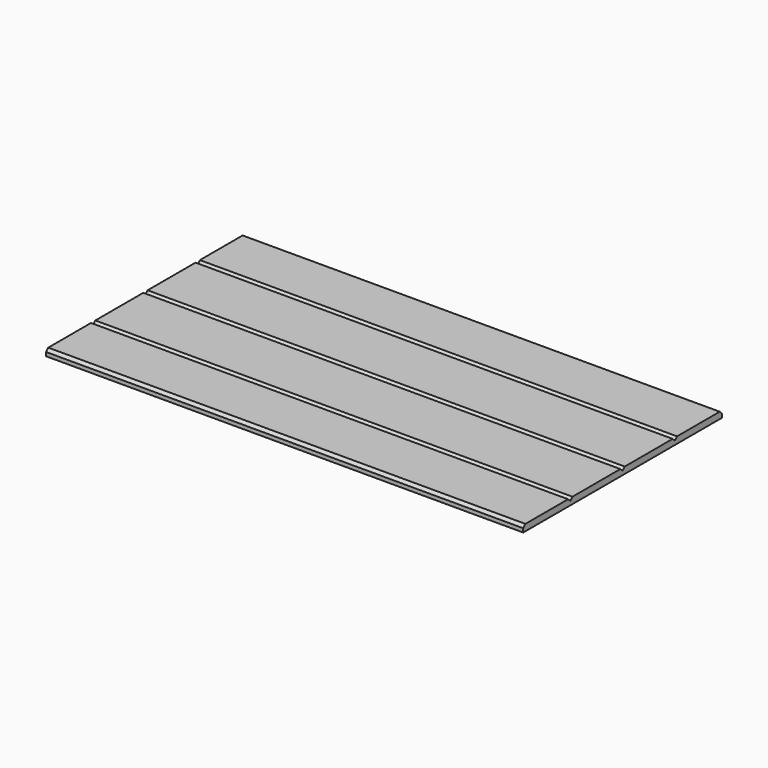
from build123d import *

# Parameters (mm, degrees)
F0_W     = 876
F0_H     = 456
F1_DEPTH = 12
F3_DEPTH = 900


with BuildPart() as f1:
    # F0 (on Top) → F1 (new body)
    with BuildSketch(Plane.XY):
        with Locations((113.771095, -4.736843)):
            Rectangle(F0_W, F0_H)
    extrude(amount=F1_DEPTH)

    # F2 (on face) → F3 (cut)
    with BuildSketch(Plane(origin=(-324.228905, 0, 0), x_dir=(0, -1, 0), z_dir=(-1, 0, 0))):
        Polygon((-218.263157, 12), (-223.263157, 12), (-223.263157, 7), align=None)
        Polygon((232.736843, 7), (232.736843, 12), (227.736843, 12), align=None)
        Polygon((129.736843, 12), (124.736843, 12), (119.736843, 12), (124.736843, 7), align=None)
        Polygon((9.736843, 12), (4.736843, 12), (-0.263157, 12), (4.736843, 7), align=None)
        Polygon((-110.263157, 12), (-115.263157, 12), (-120.263157, 12), (-115.263157, 7), align=None)
    extrude(amount=-F3_DEPTH, mode=Mode.SUBTRACT)


solid = f1.part
